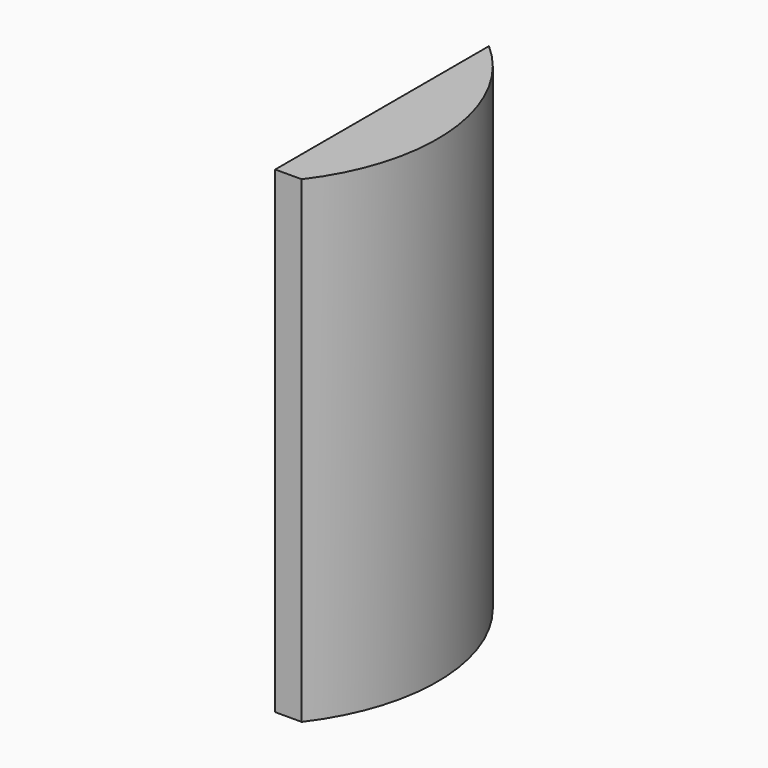
from build123d import *

# Parameters (mm, degrees)
F0_W     = 22.812426
F0_H     = 27.141787
F1_DEPTH = 38.862
F2_R     = 10.473378
F3_DEPTH = 25.4


with BuildPart() as f1:
    # F0 (on Top) → F1 (new body)
    with BuildSketch(Plane.XY):
        with Locations((-34.718182, -29.972527)):
            Rectangle(F0_W, F0_H)
    extrude(amount=-F1_DEPTH)

    # F2 (on face) → F3 (intersect)
    with BuildSketch(Plane(origin=(0, 0, -38.862), x_dir=(1, 0, 0), z_dir=(0, 0, -1))):
        with Locations((-53.048883, 37.19401)):
            Circle(F2_R)
    extrude(amount=-F3_DEPTH, mode=Mode.INTERSECT)


solid = f1.part
